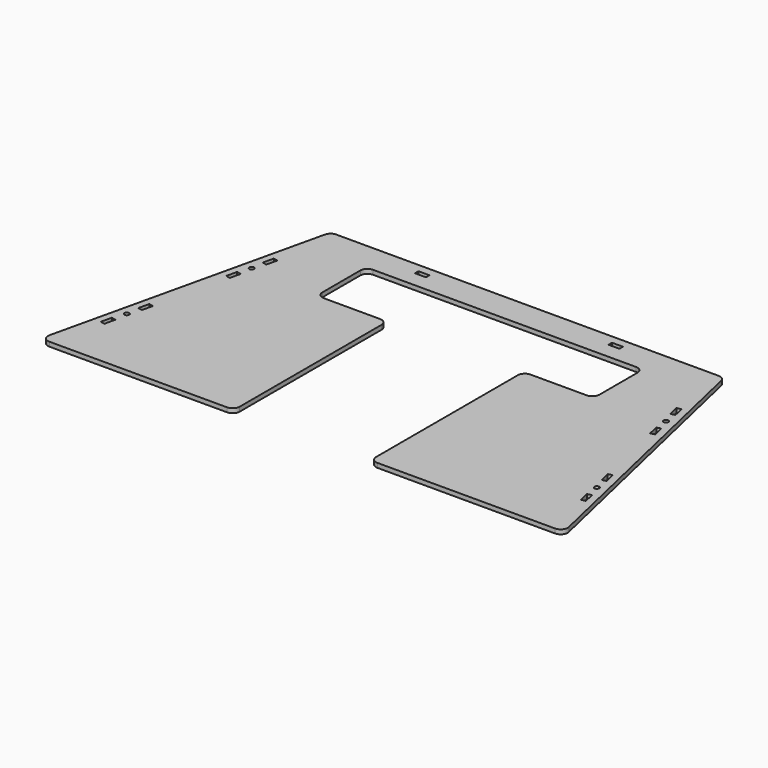
from build123d import *

# Parameters (mm, degrees)
F0_R     = 1.7145
F0_W     = 7.9375
F0_H     = 3.175
F1_DEPTH = 3.175
F3_DEPTH = 3.176
F4_R     = 5.08


with BuildPart() as f1:
    # F0 (on Top) → F1 (new body)
    with BuildSketch(Plane.XY):
        Polygon((-142.08125, 101.6), (-188.9125, -101.6), (188.9125, -101.6), (142.08125, 101.6), align=None)
        Polygon((-172.0488805663, -65.1862989442), (-175.1427761754, -64.4732526906), (-173.3601605412, -56.7385136678), (-170.2662649321, -57.4515599214), align=None, mode=Mode.SUBTRACT)
        with Locations((-169.6740739757, -47.8133499672)):
            Circle(F0_R, mode=Mode.SUBTRACT)
        Polygon((-169.0818830192, -38.175140013), (-167.2992673851, -30.4404009902), (-164.205371776, -31.1534472439), (-165.9879874101, -38.8881862667), align=None, mode=Mode.SUBTRACT)
        Polygon((172.0488805663, -65.1862989442), (170.2662649321, -57.4515599214), (173.3601605412, -56.7385136678), (175.1427761754, -64.4732526906), align=None, mode=Mode.SUBTRACT)
        with Locations((169.6740739757, -47.8133499672)):
            Circle(F0_R, mode=Mode.SUBTRACT)
        Polygon((167.2992673851, -30.4404009902), (169.0818830192, -38.175140013), (165.9879874101, -38.8881862667), (164.205371776, -31.1534472439), align=None, mode=Mode.SUBTRACT)
        Polygon((-150.0182030992, 30.4044371841), (-151.8008187334, 22.6696981613), (-154.8947143425, 23.3827444149), (-153.1120987083, 31.1174834377), align=None, mode=Mode.SUBTRACT)
        with Locations((-149.5820584881, 39.7220878176)):
            Circle(F0_R, mode=Mode.SUBTRACT)
        Polygon((-145.8959719225, 48.2907283913), (-148.9898675317, 49.003774645), (-147.2072518975, 56.7385136678), (-144.1133562884, 56.0254674141), align=None, mode=Mode.SUBTRACT)
        with Locations((-69.85, 94.0125)):
            Rectangle(F0_W, F0_H, mode=Mode.SUBTRACT)
        Polygon((150.0182030992, 30.4044371841), (153.1120987083, 31.1174834377), (154.8947143425, 23.3827444149), (151.8008187334, 22.6696981613), align=None, mode=Mode.SUBTRACT)
        with Locations((149.5820584881, 39.7220878176)):
            Circle(F0_R, mode=Mode.SUBTRACT)
        with Locations((69.85, 94.0125)):
            Rectangle(F0_W, F0_H, mode=Mode.SUBTRACT)
        Polygon((145.8959719225, 48.2907283913), (144.1133562884, 56.0254674141), (147.2072518975, 56.7385136678), (148.9898675317, 49.003774645), align=None, mode=Mode.SUBTRACT)
    extrude(amount=F1_DEPTH)

    # F2 (on face) → F3 (cut, through all)
    with BuildSketch(Plane.XY.offset(3.175)):
        Polygon((0, 80.9625), (-100.0125, 80.9625), (-100.0125, 36.5125), (-49.2125, 36.5125), (-49.2125, -101.6), (0, -101.6), (49.2125, -101.6), (49.2125, 36.5125), (100.0125, 36.5125), (100.0125, 80.9625), align=None)
    extrude(amount=-F3_DEPTH, mode=Mode.SUBTRACT)

    # F4
    f4_edges = [f1.edges().sort_by_distance(p)[0] for p in [
        (-142.08125, 101.6, 1.5875),
        (-188.9125, -101.6, 1.5875),
        (142.08125, 101.6, 1.5875),
        (188.9125, -101.6, 1.5875),
        (-49.2125, -101.6, 1.5875),
        (49.2125, -101.6, 1.5875),
        (-100.0125, 80.9625, 1.5875),
        (-49.2125, 36.5125, 1.5875),
        (-100.0125, 36.5125, 1.5875),
        (49.2125, 36.5125, 1.5875),
        (100.0125, 80.9625, 1.5875),
        (100.0125, 36.5125, 1.5875),
    ]]
    fillet(f4_edges, radius=F4_R)


solid = f1.part
